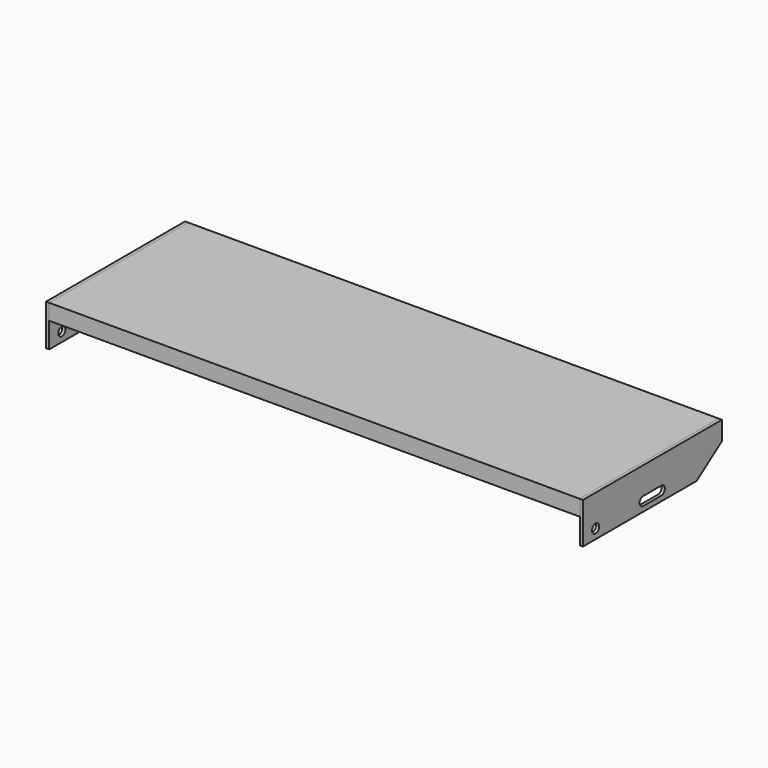
from build123d import *

# Parameters (mm, degrees)
F0_W     = 840
F0_H     = 275
F1_DEPTH = 25
F2_W     = 275
F2_H     = 65
F3_DEPTH = 5
F4_SIZE2 = 35.0103769105
F4_SIZE  = 50
F5_R     = 7
F6_DEPTH = 25


with BuildPart() as f1:
    # F0 (on Top) → F1 (new body)
    with BuildSketch(Plane.XY):
        with Locations((0, 137.5)):
            Rectangle(F0_W, F0_H)
    extrude(amount=-F1_DEPTH)


with BuildPart() as f3:
    # F2 (on face) → F3 (new body)
    with BuildSketch(Plane.YZ.offset(420)):
        with Locations((137.5, -32.5)):
            Rectangle(F2_W, F2_H)
    extrude(amount=F3_DEPTH)

    # F4
    f4_edges = [f3.edges().sort_by_distance(p)[0] for p in [
        (422.5, 275, -65),
    ]]
    f4_side = f3.faces().sort_by_distance((422.5, 137.5, -65))[0]
    chamfer(f4_edges, length=F4_SIZE, length2=F4_SIZE2, reference=f4_side)

    # F5 (on face) → F6 (cut)
    with BuildSketch(Plane.YZ.offset(425)):
        with Locations((25, -50)):
            Circle(F5_R)
        with BuildLine():
            Line((155, -43), (119, -43))
            ThreePointArc((119, -43), (112, -50), (119, -57))
            Line((119, -57), (155, -57))
            ThreePointArc((155, -57), (162, -50), (155, -43))
        make_face()
    extrude(amount=-F6_DEPTH, mode=Mode.SUBTRACT)


with BuildPart() as f7_1:
    # F7: copy of F3
    add(f3.part.moved(Location((-845, 0, 0))))


with BuildPart() as f8_1:
    # F8: copy of F1
    add(f1.part)


solid = Compound([f3.part, f7_1.part, f8_1.part])
